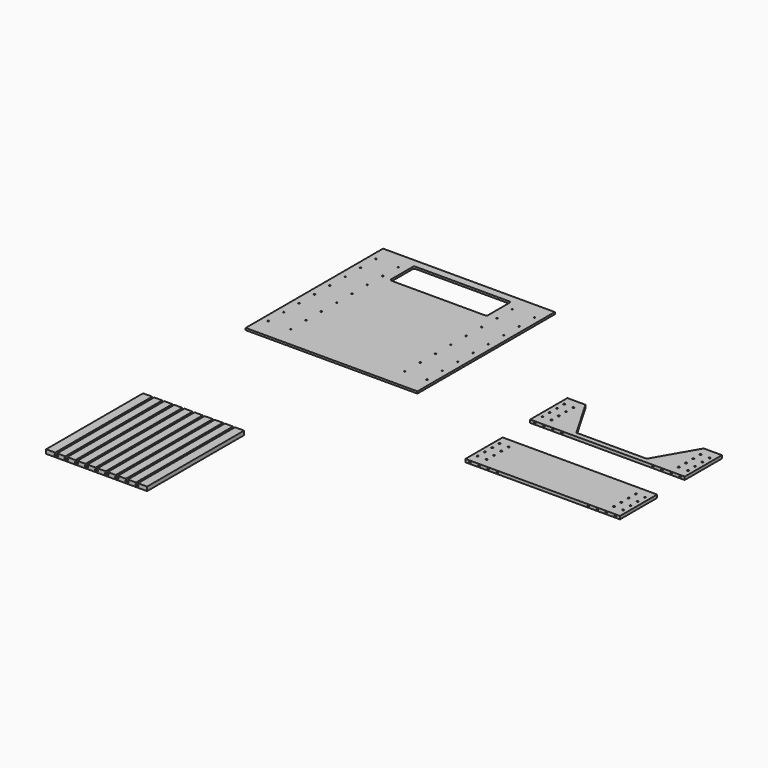
from build123d import *

# Parameters (mm, degrees)
F0_R      = 4.2
F1_DEPTH  = 15
F2_R      = 4.2
F3_DEPTH  = 15
F0_W      = 765
F0_H      = 230
F4_DEPTH  = 15
F5_R      = 4.2
F6_DEPTH  = 15
F0_W_2    = 850
F0_H_2    = 850
F7_DEPTH  = 10
F8_D      = 6.7
F0_W_3    = 500
F0_H_3    = 600
F9_DEPTH  = 20
F11_DEPTH = 600


with BuildPart() as f1:
    # F0 (on Top) → F1 (new body)
    with BuildSketch(Plane.XY):
        with BuildLine():
            Line((-99.515819, -105.855837), (-189.515819, -105.855837))
            Line((-189.515819, -105.855837), (-189.515819, -335.855837))
            Line((-189.515819, -335.855837), (575.484181, -335.855837))
            Line((575.484181, -335.855837), (575.484181, -105.855837))
            Line((575.484181, -105.855837), (485.484181, -105.855837))
            Line((485.484181, -105.855837), (367.993401, -309.355837))
            ThreePointArc((367.993401, -309.355837), (366.895325, -310.453914), (365.395325, -310.855837))
            Line((365.395325, -310.855837), (20.573037, -310.855837))
            ThreePointArc((20.573037, -310.855837), (19.073037, -310.453914), (17.97496, -309.355837))
            Line((17.97496, -309.355837), (-99.515819, -105.855837))
        make_face()
        with Locations((-167.015819, -288.355837)):
            Circle(F0_R, mode=Mode.SUBTRACT)
        with Locations((-167.015819, -243.355837)):
            Circle(F0_R, mode=Mode.SUBTRACT)
        with Locations((-122.015819, -288.355837)):
            Circle(F0_R, mode=Mode.SUBTRACT)
        with Locations((-122.015819, -243.355837)):
            Circle(F0_R, mode=Mode.SUBTRACT)
        with Locations((-167.015819, -198.355837)):
            Circle(F0_R, mode=Mode.SUBTRACT)
        with Locations((-122.015819, -198.355837)):
            Circle(F0_R, mode=Mode.SUBTRACT)
        with Locations((-167.015819, -153.355837)):
            Circle(F0_R, mode=Mode.SUBTRACT)
        with Locations((-122.015819, -153.355837)):
            Circle(F0_R, mode=Mode.SUBTRACT)
        with Locations((507.984181, -288.355837)):
            Circle(F0_R, mode=Mode.SUBTRACT)
        with Locations((507.984181, -243.355837)):
            Circle(F0_R, mode=Mode.SUBTRACT)
        with Locations((552.984181, -288.355837)):
            Circle(F0_R, mode=Mode.SUBTRACT)
        with Locations((552.984181, -243.355837)):
            Circle(F0_R, mode=Mode.SUBTRACT)
        with Locations((507.984181, -198.355837)):
            Circle(F0_R, mode=Mode.SUBTRACT)
        with Locations((552.984181, -198.355837)):
            Circle(F0_R, mode=Mode.SUBTRACT)
        with Locations((507.984181, -153.355837)):
            Circle(F0_R, mode=Mode.SUBTRACT)
        with Locations((552.984181, -153.355837)):
            Circle(F0_R, mode=Mode.SUBTRACT)
    extrude(amount=F1_DEPTH)

    # F2 (on face) → F3 (cut)
    with BuildSketch(Plane.XZ.offset(335.855837)):
        with Locations((-167.015819, 7.5)):
            Circle(F2_R)
        with Locations((-122.015819, 7.5)):
            Circle(F2_R)
        with Locations((-77.015819, 7.5)):
            Circle(F2_R)
        with Locations((-32.015819, 7.5)):
            Circle(F2_R)
        with Locations((417.984181, 7.5)):
            Circle(F2_R)
        with Locations((462.984181, 7.5)):
            Circle(F2_R)
        with Locations((507.984181, 7.5)):
            Circle(F2_R)
        with Locations((552.984181, 7.5)):
            Circle(F2_R)
    extrude(amount=-F3_DEPTH, mode=Mode.SUBTRACT)


with BuildPart() as f4:
    # F0 (on Top) → F4 (new body)
    with BuildSketch(Plane.XY):
        with Locations((203.365225, -634.50707)):
            Rectangle(F0_W, F0_H)
        with Locations((-156.634775, -702.00707)):
            Circle(F0_R, mode=Mode.SUBTRACT)
        with Locations((-111.634775, -702.00707)):
            Circle(F0_R, mode=Mode.SUBTRACT)
        with Locations((-156.634775, -657.00707)):
            Circle(F0_R, mode=Mode.SUBTRACT)
        with Locations((-111.634775, -657.00707)):
            Circle(F0_R, mode=Mode.SUBTRACT)
        with Locations((518.365225, -702.00707)):
            Circle(F0_R, mode=Mode.SUBTRACT)
        with Locations((563.365225, -702.00707)):
            Circle(F0_R, mode=Mode.SUBTRACT)
        with Locations((518.365225, -657.00707)):
            Circle(F0_R, mode=Mode.SUBTRACT)
        with Locations((563.365225, -657.00707)):
            Circle(F0_R, mode=Mode.SUBTRACT)
        with Locations((-156.634775, -612.00707)):
            Circle(F0_R, mode=Mode.SUBTRACT)
        with Locations((-156.634775, -567.00707)):
            Circle(F0_R, mode=Mode.SUBTRACT)
        with Locations((-111.634775, -612.00707)):
            Circle(F0_R, mode=Mode.SUBTRACT)
        with Locations((-111.634775, -567.00707)):
            Circle(F0_R, mode=Mode.SUBTRACT)
        with Locations((518.365225, -612.00707)):
            Circle(F0_R, mode=Mode.SUBTRACT)
        with Locations((518.365225, -567.00707)):
            Circle(F0_R, mode=Mode.SUBTRACT)
        with Locations((563.365225, -612.00707)):
            Circle(F0_R, mode=Mode.SUBTRACT)
        with Locations((563.365225, -567.00707)):
            Circle(F0_R, mode=Mode.SUBTRACT)
    extrude(amount=F4_DEPTH)

    # F5 (on face) → F6 (cut)
    with BuildSketch(Plane.XZ.offset(749.50707)):
        with Locations((-156.634775, 7.5)):
            Circle(F5_R)
        with Locations((-111.634775, 7.5)):
            Circle(F5_R)
        with Locations((-66.634775, 7.5)):
            Circle(F5_R)
        with Locations((-21.634775, 7.5)):
            Circle(F5_R)
        with Locations((428.365225, 7.5)):
            Circle(F5_R)
        with Locations((473.365225, 7.5)):
            Circle(F5_R)
        with Locations((518.365225, 7.5)):
            Circle(F5_R)
        with Locations((563.365225, 7.5)):
            Circle(F5_R)
    extrude(amount=-F6_DEPTH, mode=Mode.SUBTRACT)


with BuildPart() as f7:
    # F0 (on Top) → F7 (new body)
    with BuildSketch(Plane.XY):
        with Locations((-1120.048043, 23.433697)):
            Rectangle(F0_W_2, F0_H_2)
        with BuildLine():
            ThreePointArc((-1360.048043, 398.433697), (-1357.119111, 405.504765), (-1350.048043, 408.433697))
            Line((-1350.048043, 408.433697), (-890.048043, 408.433697))
            ThreePointArc((-890.048043, 408.433697), (-882.976975, 405.504765), (-880.048043, 398.433697))
            Line((-880.048043, 398.433697), (-880.048043, 268.433697))
            ThreePointArc((-880.048043, 268.433697), (-882.976975, 261.362629), (-890.048043, 258.433697))
            Line((-890.048043, 258.433697), (-1350.048043, 258.433697))
            ThreePointArc((-1350.048043, 258.433697), (-1357.119111, 261.362629), (-1360.048043, 268.433697))
            Line((-1360.048043, 268.433697), (-1360.048043, 398.433697))
        make_face(mode=Mode.SUBTRACT)
    extrude(amount=-F7_DEPTH)

    # F8 (through all)
    with Locations(Plane.XY):
        with Locations((-1512.548043, 363.433697), (-1512.548043, 268.433697), (-1512.548043, 173.433697), (-1512.548043, 78.433697), (-1512.548043, -16.566303), (-1512.548043, -111.566303), (-1512.548043, -206.566303), (-1512.548043, -301.566303), (-1402.548043, -301.566303), (-1402.548043, -206.566303), (-1402.548043, -111.566303), (-1402.548043, -16.566303), (-1402.548043, 78.433697), (-1402.548043, 173.433697), (-1402.548043, 268.433697), (-1402.548043, 363.433697), (-837.548043, 363.433697), (-837.548043, 268.433697), (-837.548043, 173.433697), (-837.548043, 78.433697), (-837.548043, -16.566303), (-837.548043, -111.566303), (-837.548043, -206.566303), (-837.548043, -301.566303), (-727.548043, -301.566303), (-727.548043, -206.566303), (-727.548043, -111.566303), (-727.548043, -16.566303), (-727.548043, 78.433697), (-727.548043, 173.433697), (-727.548043, 268.433697), (-727.548043, 363.433697)):
            Hole(F8_D / 2)


with BuildPart() as f9:
    # F0 (on Top) → F9 (new body)
    with BuildSketch(Plane.XY):
        with Locations((-1238.784909, -1406.551075)):
            Rectangle(F0_W_3, F0_H_3)
    extrude(amount=F9_DEPTH)

    # F10 (on face) → F11 (cut)
    with BuildSketch(Plane.XZ.offset(1706.551075)):
        Polygon((-1033.784909, 13.5), (-1033.784909, 20), (-1043.784909, 20), (-1043.784909, 13.5), (-1046.784909, 13.5), (-1046.784909, 5.5), (-1030.784909, 5.5), (-1030.784909, 13.5), align=None)
        Polygon((-1083.784909, 13.5), (-1083.784909, 20), (-1093.784909, 20), (-1093.784909, 13.5), (-1096.784909, 13.5), (-1096.784909, 5.5), (-1080.784909, 5.5), (-1080.784909, 13.5), align=None)
        Polygon((-1133.784909, 13.5), (-1133.784909, 20), (-1143.784909, 20), (-1143.784909, 13.5), (-1146.784909, 13.5), (-1146.784909, 5.5), (-1130.784909, 5.5), (-1130.784909, 13.5), align=None)
        Polygon((-1183.784909, 20), (-1193.784909, 20), (-1193.784909, 13.5), (-1196.784909, 13.5), (-1196.784909, 5.5), (-1180.784909, 5.5), (-1180.784909, 13.5), (-1183.784909, 13.5), align=None)
        Polygon((-1233.784909, 20), (-1243.784909, 20), (-1243.784909, 13.5), (-1246.784909, 13.5), (-1246.784909, 5.5), (-1230.784909, 5.5), (-1230.784909, 13.5), (-1233.784909, 13.5), align=None)
        Polygon((-1283.784909, 20), (-1293.784909, 20), (-1293.784909, 13.5), (-1296.784909, 13.5), (-1296.784909, 5.5), (-1280.784909, 5.5), (-1280.784909, 13.5), (-1283.784909, 13.5), align=None)
        Polygon((-1333.784909, 20), (-1343.784909, 20), (-1343.784909, 13.5), (-1346.784909, 13.5), (-1346.784909, 5.5), (-1330.784909, 5.5), (-1330.784909, 13.5), (-1333.784909, 13.5), align=None)
        Polygon((-1383.784909, 20), (-1393.784909, 20), (-1393.784909, 13.5), (-1396.784909, 13.5), (-1396.784909, 5.5), (-1380.784909, 5.5), (-1380.784909, 13.5), (-1383.784909, 13.5), align=None)
        Polygon((-1433.784909, 20), (-1443.784909, 20), (-1443.784909, 13.5), (-1446.784909, 13.5), (-1446.784909, 5.5), (-1430.784909, 5.5), (-1430.784909, 13.5), (-1433.784909, 13.5), align=None)
    extrude(amount=-F11_DEPTH, mode=Mode.SUBTRACT)


solid = Compound([f1.part, f4.part, f7.part, f9.part])
